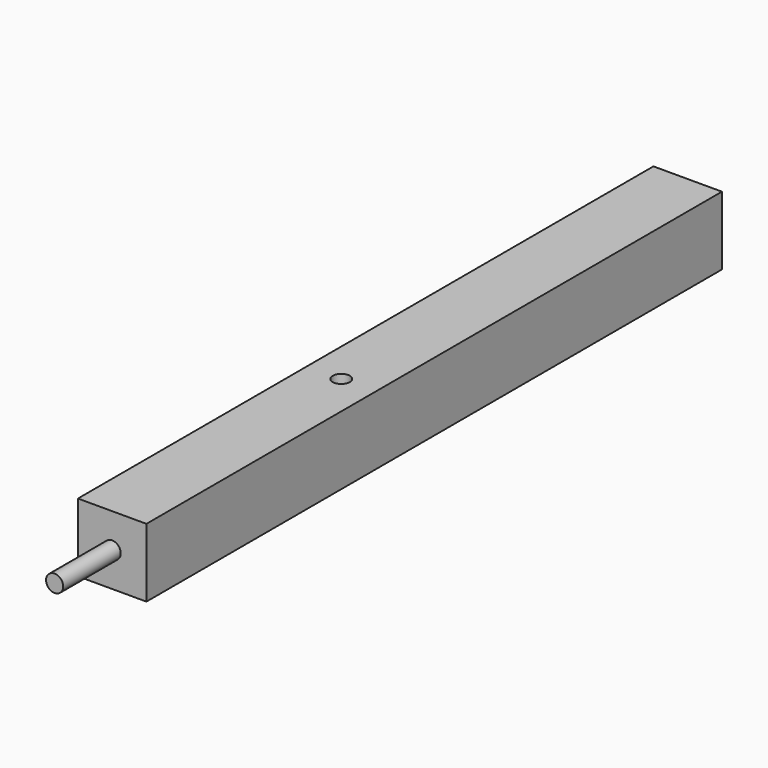
from build123d import *

# Parameters (mm, degrees)
F0_W     = 25.4
F0_H     = 25.4
F1_DEPTH = 266.7
F2_R     = 3.175
F3_DEPTH = 26.67
F4_R     = 3.175
F5_DEPTH = 25.4


with BuildPart() as f1:
    # F0 (on Front) → F1 (new body)
    with BuildSketch(Plane.XZ):
        Rectangle(F0_W, F0_H)
    extrude(amount=-F1_DEPTH)

    # F2 (on face) → F3 (join)
    with BuildSketch(Plane.XZ):
        Circle(F2_R)
    extrude(amount=F3_DEPTH)

    # F4 (on face) → F5 (cut, through all)
    with BuildSketch(Plane.XY.offset(12.7)):
        with Locations((0, 106.172)):
            Circle(F4_R)
    extrude(amount=-F5_DEPTH, mode=Mode.SUBTRACT)


solid = f1.part
